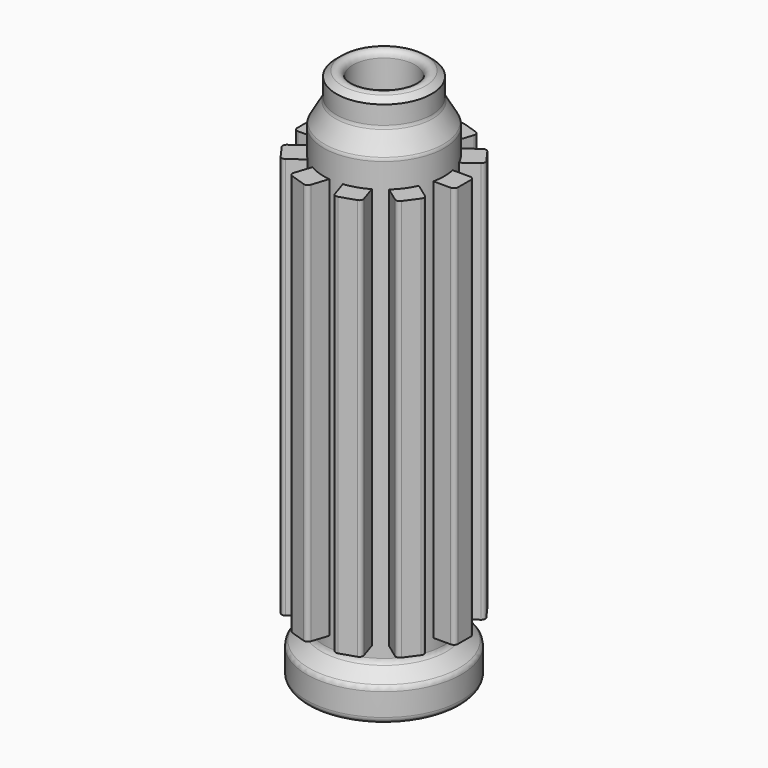
from build123d import *

# Parameters (mm, degrees)
F2_R     = 1.6
F4_W     = 6
F4_H     = 100
F6_R     = 1
F7_COUNT = 10


with BuildPart() as f1:
    # F0 (on Front) → F1 (revolve)
    with BuildSketch(Plane.XZ):
        with BuildLine():
            Line((7.75, 135), (7.75, 125))
            Line((7.75, 125), (10.75, 125))
            Line((10.75, 125), (10.75, 0))
            Line((10.75, 0), (19.25, 0))
            Line((19.25, 0), (19.25, 8))
            Line((19.25, 8), (15, 11.5661734325))
            Line((15, 11.5661734325), (15, 121.5661734325))
            Line((15, 121.5661734325), (11.8627787685, 127))
            Line((11.8627787685, 127), (11.8627787685, 132))
            ThreePointArc((11.8627787685, 132), (9.8698202567, 133.5869590485), (7.75, 135))
        make_face()
    revolve(axis=Axis((0, 0, 20.3079207285), (0, 0, 1)))

    # F2
    f2_edges = [f1.edges().sort_by_distance(p)[0] for p in [
        (-7.75, 0, 135),
        (-11.862779, 0, 127),
        (-15, 0, 121.566173),
        (-15, 0, 11.566173),
        (-19.25, 0, 8),
        (-19.25, 0, 0),
    ]]
    fillet(f2_edges, radius=F2_R)


with BuildPart() as f5:
    # F4 (on offset) → F5 (new body, up to the next surface of F1)
    with BuildSketch(Plane.YZ.offset(20)):
        with Locations((0, 65)):
            Rectangle(F4_W, F4_H)
    extrude(until=Until.NEXT, target=f1.part, dir=(-1, 0, 0))

    # F6
    f6_edges = [f5.edges().sort_by_distance(p)[0] for p in [
        (20, -3, 65),
        (20, 3, 65),
    ]]
    fillet(f6_edges, radius=F6_R)


with BuildPart() as f7_1:
    # F7: instance of F5
    add(f5.part.rotate(Axis((0, 0, 20.3079207285), (0, 0, 1)), 1 * 360 / F7_COUNT))


with BuildPart() as f7_2:
    # F7: instance of F5
    add(f5.part.rotate(Axis((0, 0, 20.3079207285), (0, 0, 1)), 2 * 360 / F7_COUNT))


with BuildPart() as f7_3:
    # F7: instance of F5
    add(f5.part.rotate(Axis((0, 0, 20.3079207285), (0, 0, 1)), 3 * 360 / F7_COUNT))


with BuildPart() as f7_4:
    # F7: instance of F5
    add(f5.part.rotate(Axis((0, 0, 20.3079207285), (0, 0, 1)), 4 * 360 / F7_COUNT))


with BuildPart() as f7_5:
    # F7: instance of F5
    add(f5.part.rotate(Axis((0, 0, 20.3079207285), (0, 0, 1)), 5 * 360 / F7_COUNT))


with BuildPart() as f7_6:
    # F7: instance of F5
    add(f5.part.rotate(Axis((0, 0, 20.3079207285), (0, 0, 1)), 6 * 360 / F7_COUNT))


with BuildPart() as f7_7:
    # F7: instance of F5
    add(f5.part.rotate(Axis((0, 0, 20.3079207285), (0, 0, 1)), 7 * 360 / F7_COUNT))


with BuildPart() as f7_8:
    # F7: instance of F5
    add(f5.part.rotate(Axis((0, 0, 20.3079207285), (0, 0, 1)), 8 * 360 / F7_COUNT))


with BuildPart() as f7_9:
    # F7: instance of F5
    add(f5.part.rotate(Axis((0, 0, 20.3079207285), (0, 0, 1)), 9 * 360 / F7_COUNT))


solid = Compound([f1.part, f5.part, f7_1.part, f7_2.part, f7_3.part, f7_4.part, f7_5.part, f7_6.part, f7_7.part, f7_8.part, f7_9.part])
